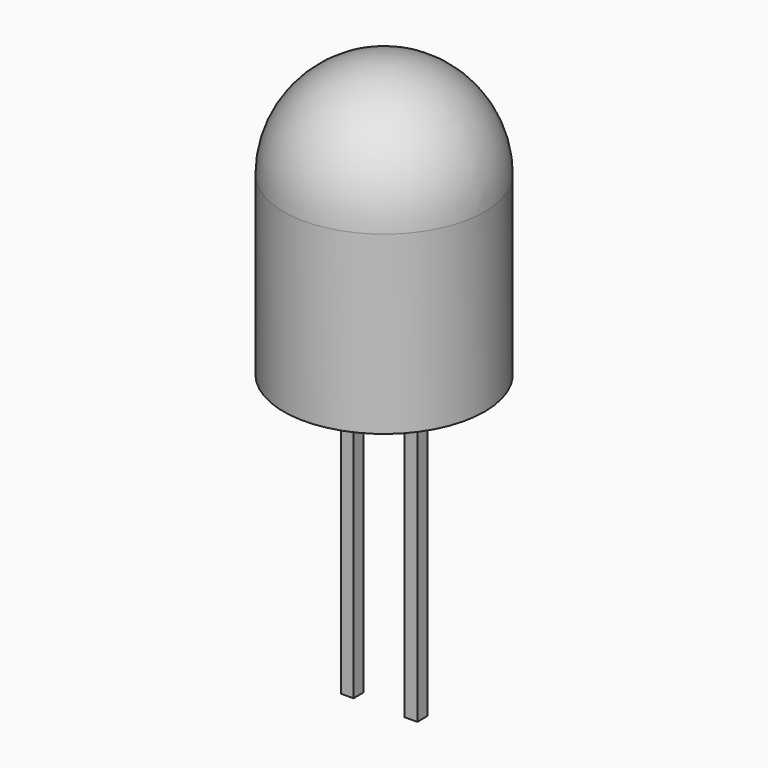
from build123d import *

# Parameters (mm, degrees)
F2_W     = 0.5
F2_H     = 11.5725328927
F3_DEPTH = 0.25


with BuildPart() as f1:
    # F0 (on Front) → F1 (revolve)
    with BuildSketch(Plane.XZ):
        with BuildLine():
            Line((0, 11), (0, 0))
            Line((0, 0), (4, 0))
            Line((4, 0), (4, 7))
            ThreePointArc((4, 7), (2.8284271247, 9.8284271247), (0, 11))
        make_face()
    revolve(axis=Axis((0, 0, -1.8003873279), (0, 0, -1)))

    # F2 (on Front) → F3 (join, symmetric)
    with BuildSketch(Plane.XZ):
        with Locations((1.27, -5.7862664463)):
            Rectangle(F2_W, F2_H)
        with Locations((-1.27, -5.7862664463)):
            Rectangle(F2_W, F2_H)
    extrude(amount=F3_DEPTH, both=True)


solid = f1.part
